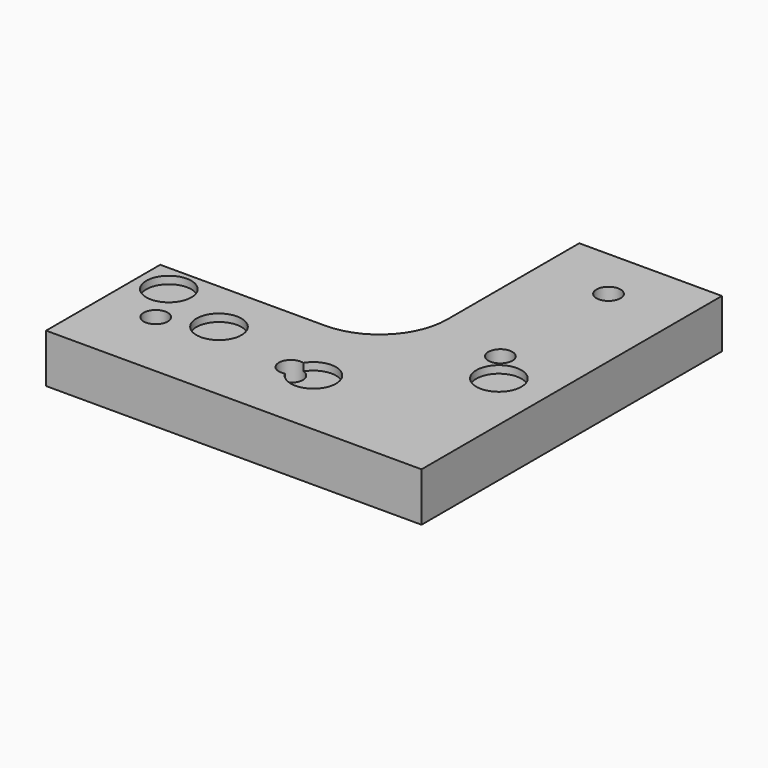
from build123d import *

# Parameters (mm, degrees)
PAD_DEPTH       = 6.5
SKETCH001_W     = 27
SKETCH001_H     = 6
SKETCH001_W_2   = 6
SKETCH001_H_2   = 27
PAD001_DEPTH    = 1
SKETCH002_R     = 1.6
POCKET_DEPTH    = 7.501
SKETCH003_R     = 3
POCKET001_DEPTH = 1


with BuildPart() as part:
    # Sketch → Pad (new body)
    with BuildSketch(Plane.XY):
        with BuildLine():
            Line((-9.5, 40.5), (9.5, 40.5))
            Line((9.5, 40.5), (9.5, -9.5))
            Line((9.5, -9.5), (-40.5, -9.5))
            Line((-40.5, -9.5), (-40.5, 9.5))
            Line((-40.5, 9.5), (-18.5, 9.5))
            ThreePointArc((-18.5, 9.5), (-12.136039, 12.136039), (-9.5, 18.5))
            Line((-9.5, 18.5), (-9.5, 40.5))
        make_face()
    extrude(amount=PAD_DEPTH)

    # Sketch001 → Pad001 (new body)
    with BuildSketch(Plane(origin=(0, 0, 0), x_dir=(1, 0, 0), z_dir=(0, 0, -1))):
        with Locations((-25, 0)):
            Rectangle(SKETCH001_W, SKETCH001_H)
        with Locations((0, -25)):
            Rectangle(SKETCH001_W_2, SKETCH001_H_2)
    extrude(amount=PAD001_DEPTH)

    # Sketch002 → Pocket (cut, through all)
    with BuildSketch(Plane.XY.offset(6.5)):
        with Locations((-33.5, 0)):
            Circle(SKETCH002_R)
        with Locations((-15.5, 0)):
            Circle(SKETCH002_R)
        with Locations((0, 15.5)):
            Circle(SKETCH002_R)
        with Locations((0, 33.5)):
            Circle(SKETCH002_R)
    extrude(amount=-POCKET_DEPTH, mode=Mode.SUBTRACT)

    # Sketch003 → Pocket001 (cut)
    with BuildSketch(Plane.XY.offset(6.5)):
        with Locations((3, 11.5)):
            Circle(SKETCH003_R)
        with Locations((-12.5, 0)):
            Circle(SKETCH003_R)
        with Locations((-36.376617, 5.782363)):
            Circle(SKETCH003_R)
        with Locations((-27, 2.406107)):
            Circle(SKETCH003_R)
    extrude(amount=-POCKET001_DEPTH, mode=Mode.SUBTRACT)


solid = part.part
